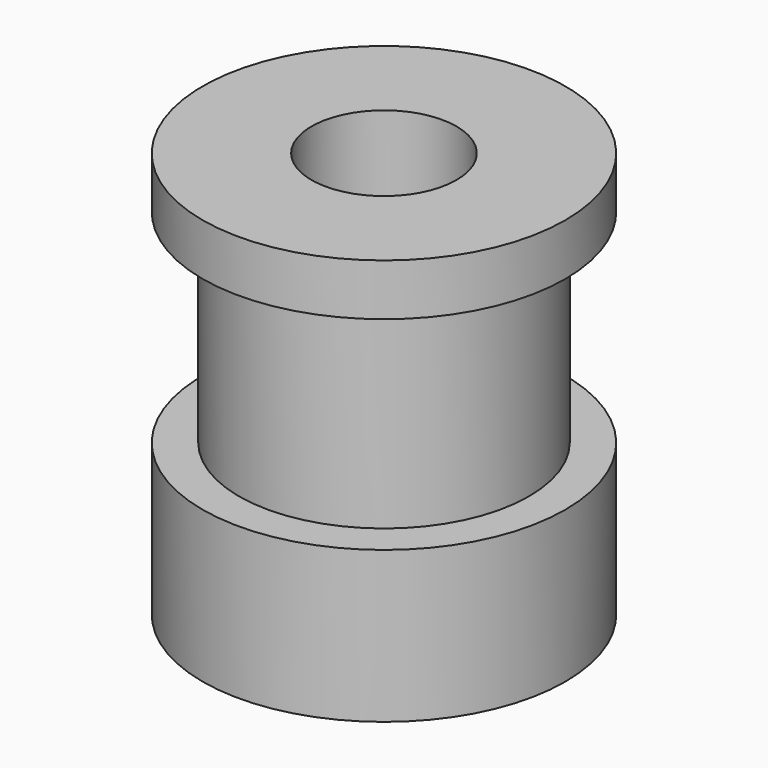
from build123d import *

# Parameters (mm, degrees)
F0_R     = 6.25
F0_R_2   = 2.5
F1_DEPTH = 14
F2_W     = 3.733449
F2_H     = 7
F4_R     = 1.75
F5_DEPTH = 25


with BuildPart() as f1:
    # F0 (on Top) → F1 (new body)
    with BuildSketch(Plane.XY):
        Circle(F0_R)
        Circle(F0_R_2, mode=Mode.SUBTRACT)
    extrude(amount=F1_DEPTH)

    # F2 (on Front) → F3 (revolve, cut)
    with BuildSketch(Plane.XZ):
        with Locations((-6.866725, 8.717095)):
            Rectangle(F2_W, F2_H)
    revolve(axis=Axis((0, 0, 7.230911), (0, 0, -1)), mode=Mode.SUBTRACT)

    # F4 (on Front) → F5 (cut)
    with BuildSketch(Plane.XZ):
        with Locations((0, 2.5)):
            Circle(F4_R)
    extrude(amount=-F5_DEPTH, mode=Mode.SUBTRACT)


solid = f1.part
